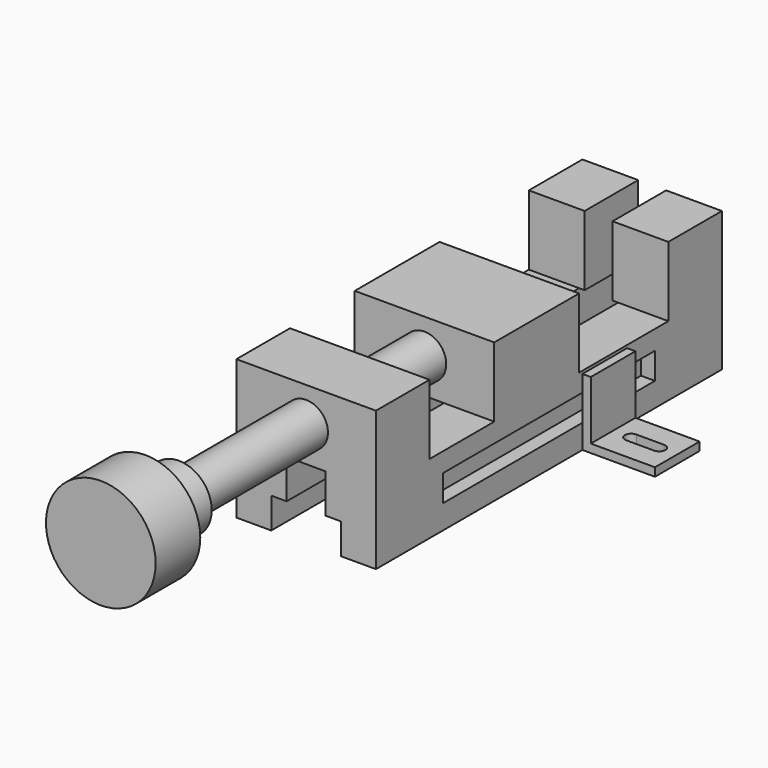
from build123d import *

# Parameters (mm, degrees)
F1_DEPTH       = 25
F3_W           = 38
F3_H           = 25
F4_DEPTH       = 25
F4_DEPTH_BACK  = 25
F5_R           = 7.8
F6_DEPTH       = 110
F7_R           = 11.75
F8_DEPTH       = 15
F9_R           = 19.65
F10_DEPTH      = 20
F11_W          = 95
F11_H          = 9.5
F12_DEPTH      = 5
F14_W          = 14
F14_H          = 170
F15_DEPTH      = 25
F16_W          = 25
F16_H          = 170
F17_DEPTH      = 11
F18_W          = 10
F18_H          = 24
F19_DEPTH      = 26
F23_DEPTH      = 10
F23_DEPTH_BACK = 10
F25_DEPTH      = 3


with BuildPart() as f1:
    # F0 (on Right) → F1 (new body)
    with BuildSketch(Plane.YZ):
        Polygon((0, 25), (0, 0), (77.5, 0), (77.5, 50), (53.5, 50), (53.5, 25), align=None)
    extrude(amount=F1_DEPTH)

    # F2: F1 across plane


with BuildPart() as f1_1:
    add(f1.part)
    add(f1.part.mirror(Plane.XZ))

    # F3 (on Right) → F4 (join, two sides)
    with BuildSketch(Plane.YZ) as f4_sk:
        with Locations((-5.5, 37.5)):
            Rectangle(F3_W, F3_H)
    extrude(amount=F4_DEPTH)
    extrude(f4_sk.sketch, amount=-F4_DEPTH_BACK)

    # F5 (on face) → F6 (join)
    with BuildSketch(Plane.XZ.offset(24.5)):
        with Locations((0, 37.5)):
            Circle(F5_R)
    extrude(amount=F6_DEPTH)

    # F7 (on face) → F8 (join)
    with BuildSketch(Plane.XZ.offset(134.5)):
        with Locations((0, 37.5)):
            Circle(F7_R)
    extrude(amount=F8_DEPTH)

    # F9 (on face) → F10 (join)
    with BuildSketch(Plane.XZ.offset(149.5)):
        with Locations((0, 37.5)):
            Circle(F9_R)
    extrude(amount=F10_DEPTH)

    # F11 (on face) → F12 (cut)
    with BuildSketch(Plane.YZ.offset(25)):
        with Locations((0, 13.35)):
            Rectangle(F11_W, F11_H)
    extrude(amount=-F12_DEPTH, mode=Mode.SUBTRACT)

    # F13: F1 across plane


with BuildPart() as f1_2:
    add(f1_1.part)
    add(f1_1.part.mirror(Plane.YZ))

    # F14 (on Top) → F15 (cut, through all)
    with BuildSketch(Plane.XY):
        Rectangle(F14_W, F14_H)
    extrude(amount=F15_DEPTH, mode=Mode.SUBTRACT)

    # F16 (on Top) → F17 (cut)
    with BuildSketch(Plane.XY):
        Rectangle(F16_W, F16_H)
    extrude(amount=F17_DEPTH, mode=Mode.SUBTRACT)

    # F18 (on face) → F19 (cut)
    with BuildSketch(Plane.XY.offset(50)):
        with Locations((0, 65.5)):
            Rectangle(F18_W, F18_H)
    extrude(amount=-F19_DEPTH, mode=Mode.SUBTRACT)


with BuildPart() as f23:
    # F22 (on offset) → F23 (new body, two sides)
    with BuildSketch(Plane.XZ.offset(-25)) as f23_sk:
        Polygon((25, 0), (51, 0), (51, 3), (28, 3), (28, 24), (25, 24), align=None)
    extrude(amount=-F23_DEPTH)
    extrude(f23_sk.sketch, amount=F23_DEPTH_BACK)

    # F24 (on face) → F25 (cut, through all)
    with BuildSketch(Plane.XY.offset(3)):
        with BuildLine():
            ThreePointArc((34.5, 27.25), (32.25, 25), (34.5, 22.75))
            Line((34.5, 22.75), (44.5, 22.75))
            ThreePointArc((44.5, 22.75), (46.75, 25), (44.5, 27.25))
            Line((44.5, 27.25), (34.5, 27.25))
        make_face()
    extrude(amount=-F25_DEPTH, mode=Mode.SUBTRACT)


with BuildPart() as f26_1:
    # F26: instance of F23
    add(f23.part.mirror(Plane.YZ))


solid = Compound([f1_2.part, f23.part, f26_1.part])
